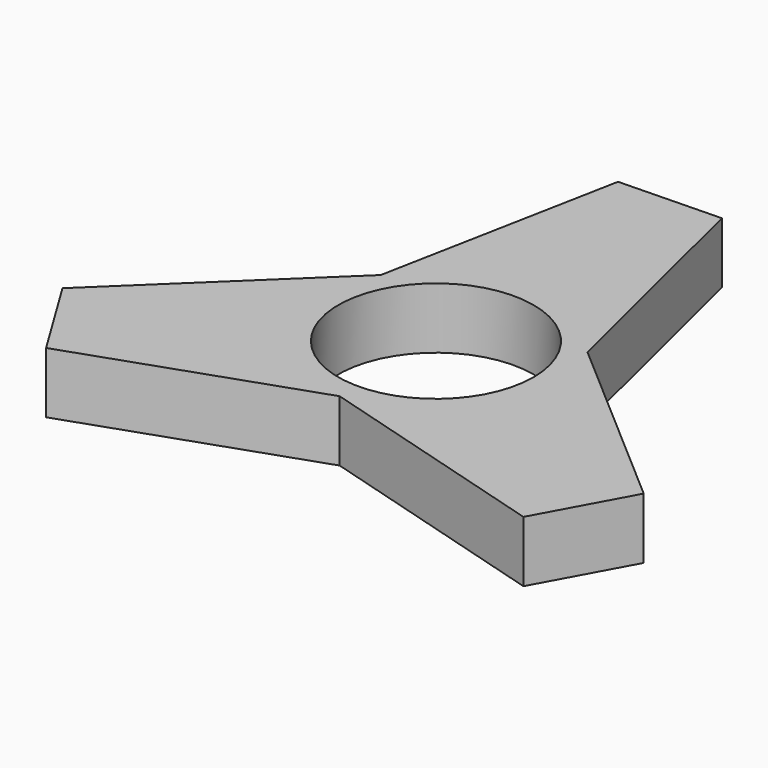
from build123d import *

# Parameters (mm, degrees)
F0_R     = 11.2
F1_DEPTH = 7


with BuildPart() as f1:
    # F0 (on Top) → F1 (new body)
    with BuildSketch(Plane.XY):
        Polygon((11.919819, 6.817446), (5.110128, 34.602866), (-6.570164, 34.310859), (-11.86399, 6.914143), (-32.522025, -12.875932), (-26.428993, -22.845358), (-0.055828, -13.731589), (27.411896, -21.726934), (32.999157, -11.465501), align=None)
        Circle(F0_R, mode=Mode.SUBTRACT)
    extrude(amount=F1_DEPTH)


solid = f1.part
